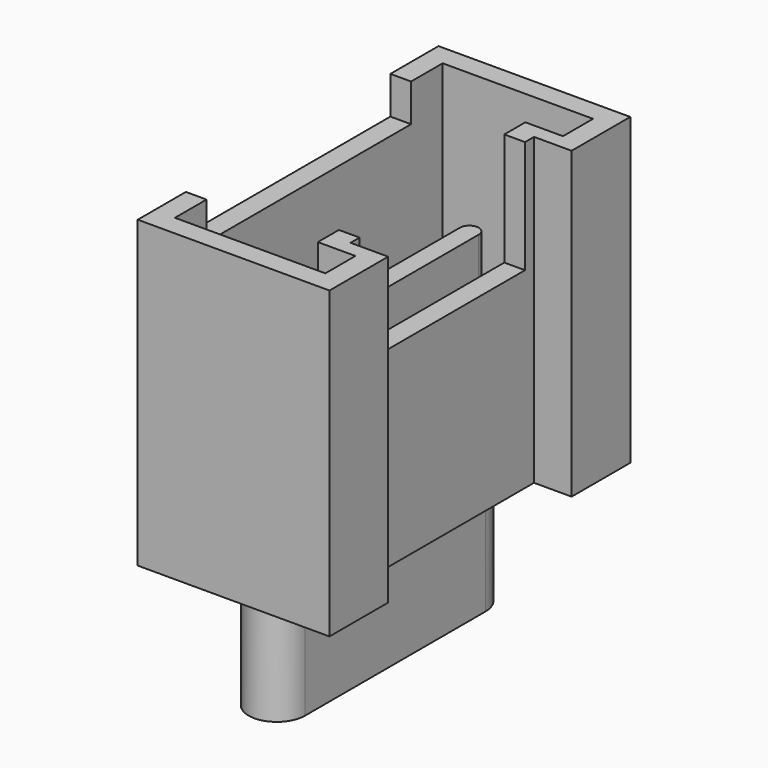
from build123d import *

# Parameters (mm, degrees)
PAD005_DEPTH            = 8.1
POCKET003_DEPTH         = 7
SKETCH010_W             = 6.8
SKETCH010_H             = 5
POCKET006_DEPTH         = 1
SKETCH011_W             = 5.5
SKETCH011_H             = 3
POCKET005_DEPTH         = 3
PAD006_DEPTH            = 4
PAD007_DEPTH            = 3.4
BODY007_PLACEMENT_ANGLE = 90


with BuildPart() as part:
    # Sketch008 → Pad005 (new body)
    with BuildSketch(Plane.XY):
        Polygon((-5, 0), (-3.05, 0), (-3.05, 1), (3.05, 1), (3.05, 0), (5, 0), (5, 5.1), (-5, 5.1), align=None)
    extrude(amount=PAD005_DEPTH)

    # Sketch009 (on Face10 of Pad005) → Pocket003 (cut)
    with BuildSketch(Plane.XY.offset(8.1)):
        Polygon((-4.45, 0.55), (-3.45, 0.55), (-3.45, 1.55), (3.45, 1.55), (3.45, 0.55), (4.45, 0.55), (4.45, 4.55), (-4.45, 4.55), align=None)
    extrude(amount=-POCKET003_DEPTH, mode=Mode.SUBTRACT)

    # Sketch010 (on Face5 of Pocket003) → Pocket006 (cut)
    with BuildSketch(Plane.XY.offset(8.1)):
        with Locations((0, 5.5)):
            Rectangle(SKETCH010_W, SKETCH010_H)
    extrude(amount=-POCKET006_DEPTH, mode=Mode.SUBTRACT)

    # Sketch011 (on Face5 of Pocket006) → Pocket005 (cut)
    with BuildSketch(Plane.XY.offset(8.1)):
        with Locations((0, 1.5)):
            Rectangle(SKETCH011_W, SKETCH011_H)
    extrude(amount=-POCKET005_DEPTH, mode=Mode.SUBTRACT)

    # Sketch015 (on Face26 of Pocket005) → Pad006 (join)
    with BuildSketch(Plane.XY.offset(1.1)):
        with BuildLine():
            ThreePointArc((-3.4, 3.25), (-3.65, 3), (-3.4, 2.75))
            Line((-3.4, 2.75), (3.4, 2.75))
            ThreePointArc((3.4, 2.75), (3.65, 3), (3.4, 3.25))
            Line((-3.4, 3.25), (3.4, 3.25))
        make_face()
    extrude(amount=PAD006_DEPTH)

    # Sketch014 → Pad007 (join)
    with BuildSketch(Plane.XY):
        with BuildLine():
            ThreePointArc((-3, 3.75), (-3.75, 3), (-3, 2.25))
            Line((-3, 2.25), (3, 2.25))
            ThreePointArc((3, 2.25), (3.75, 3), (3, 3.75))
            Line((-3, 3.75), (3, 3.75))
        make_face()
    extrude(amount=-PAD007_DEPTH)


with BuildPart() as part_1:
    # Body007 placement: moved
    add(part.part.moved(Location((-13.8, 0, 1.6))).rotate(Axis((-13.8, 0, 1.6), (0, 0, 1)), BODY007_PLACEMENT_ANGLE))


with BuildPart() as part_2:
    # Clone002 placement: moved
    add(part_1.part.moved(Location((-0.2, 0, 0))))


with BuildPart() as part_3:
    # Body010 placement: moved
    add(part_2.part.moved(Location((18.8, 0, 0))))


solid = part_3.part
